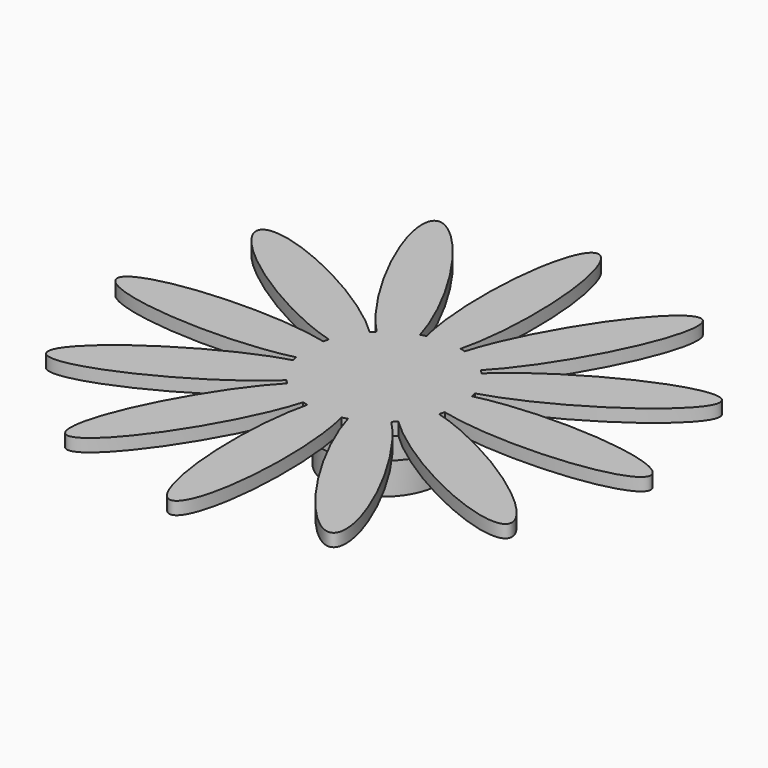
from build123d import *

# Parameters (mm, degrees)
F1_DEPTH = 1
F3_COUNT = 12
F4_R     = 4.4
F4_R_2   = 3.9
F5_DEPTH = 5
F4_R_3   = 5.4
F6_DEPTH = 2


with BuildPart() as f1:
    # F0 (on Top) → F1 (new body)
    with BuildSketch(Plane.XY):
        with BuildLine():
            ThreePointArc((-1.3434482678, 5.8476616482), (-3.7376001922, -4.6936494121), (6, 0))
            ThreePointArc((6, 0), (4.6936494121, 3.7376001922), (1.3434482678, 5.8476616482))
            add(Edge.make_bspline(
                [(0, 3.5970555618), (0.771741269, 3.5970555618), (1.3434482678, 5.8476616482)],
                knots=[0, 0, 0, 0.7365337291, 0.7365337291, 0.7365337291], degree=2, weights=[1, 0.9329526736, 1]))
            add(Edge.make_bspline(
                [(-1.3434482678, 5.8476616482), (-0.771741269, 3.5970555618), (0, 3.5970555618)],
                knots=[5.5466515781, 5.5466515781, 5.5466515781, 6.2831853072, 6.2831853072, 6.2831853072], degree=2, weights=[1, 0.9329526736, 1]))
        make_face()
        with BuildLine():
            ThreePointArc((-1.3434482678, 5.8476616482), (0, 6), (1.3434482678, 5.8476616482))
            add(Edge.make_bspline(
                [(1.3434482678, 5.8476616482), (5.1830842287, 20.9629358724), (0, 20.9629358724), (-5.1830842287, 20.9629358724), (-1.3434482678, 5.8476616482)],
                knots=[0.7365337291, 0.7365337291, 0.7365337291, 3.1415926536, 3.1415926536, 5.5466515781, 5.5466515781, 5.5466515781], degree=2, weights=[1, 0.3599990401, 1, 0.3599990401, 1]))
        make_face()
        with BuildLine():
            add(Edge.make_bspline(
                [(0, 3.5970555618), (0.771741269, 3.5970555618), (1.3434482678, 5.8476616482)],
                knots=[0, 0, 0, 0.7365337291, 0.7365337291, 0.7365337291], degree=2, weights=[1, 0.9329526736, 1]))
            ThreePointArc((1.3434482678, 5.8476616482), (0, 6), (-1.3434482678, 5.8476616482))
            add(Edge.make_bspline(
                [(-1.3434482678, 5.8476616482), (-0.771741269, 3.5970555618), (0, 3.5970555618)],
                knots=[5.5466515781, 5.5466515781, 5.5466515781, 6.2831853072, 6.2831853072, 6.2831853072], degree=2, weights=[1, 0.9329526736, 1]))
        make_face()
    extrude(amount=F1_DEPTH)


with BuildPart() as f3_1:
    # F3: instance of F1
    add(f1.part.rotate(Axis((0, 0, 8.796742186), (0, 0, -1)), 1 * 360 / F3_COUNT))


with BuildPart() as f3_2:
    # F3: instance of F1
    add(f1.part.rotate(Axis((0, 0, 8.796742186), (0, 0, -1)), 2 * 360 / F3_COUNT))


with BuildPart() as f3_3:
    # F3: instance of F1
    add(f1.part.rotate(Axis((0, 0, 8.796742186), (0, 0, -1)), 3 * 360 / F3_COUNT))


with BuildPart() as f3_4:
    # F3: instance of F1
    add(f1.part.rotate(Axis((0, 0, 8.796742186), (0, 0, -1)), 4 * 360 / F3_COUNT))


with BuildPart() as f3_5:
    # F3: instance of F1
    add(f1.part.rotate(Axis((0, 0, 8.796742186), (0, 0, -1)), 5 * 360 / F3_COUNT))


with BuildPart() as f3_6:
    # F3: instance of F1
    add(f1.part.rotate(Axis((0, 0, 8.796742186), (0, 0, -1)), 6 * 360 / F3_COUNT))


with BuildPart() as f3_7:
    # F3: instance of F1
    add(f1.part.rotate(Axis((0, 0, 8.796742186), (0, 0, -1)), 7 * 360 / F3_COUNT))


with BuildPart() as f3_8:
    # F3: instance of F1
    add(f1.part.rotate(Axis((0, 0, 8.796742186), (0, 0, -1)), 8 * 360 / F3_COUNT))


with BuildPart() as f3_9:
    # F3: instance of F1
    add(f1.part.rotate(Axis((0, 0, 8.796742186), (0, 0, -1)), 9 * 360 / F3_COUNT))


with BuildPart() as f3_10:
    # F3: instance of F1
    add(f1.part.rotate(Axis((0, 0, 8.796742186), (0, 0, -1)), 10 * 360 / F3_COUNT))


with BuildPart() as f3_11:
    # F3: instance of F1
    add(f1.part.rotate(Axis((0, 0, 8.796742186), (0, 0, -1)), 11 * 360 / F3_COUNT))


with BuildPart() as f1_1:
    add(f1.part)

    add(f3_1.part)  # F5 merges F3_1

    add(f3_2.part)  # F5 merges F3_2

    add(f3_3.part)  # F5 merges F3_3

    add(f3_4.part)  # F5 merges F3_4

    add(f3_5.part)  # F5 merges F3_5

    add(f3_6.part)  # F5 merges F3_6

    add(f3_7.part)  # F5 merges F3_7

    add(f3_8.part)  # F5 merges F3_8

    add(f3_9.part)  # F5 merges F3_9

    add(f3_10.part)  # F5 merges F3_10

    add(f3_11.part)  # F5 merges F3_11
    # F4 (on Top) → F5 (join)
    with BuildSketch(Plane.XY):
        Circle(F4_R)
        Circle(F4_R_2, mode=Mode.SUBTRACT)
    extrude(amount=-F5_DEPTH)

    # F4 (on Top) → F6 (join)
    with BuildSketch(Plane.XY):
        Circle(F4_R_3)
        Circle(F4_R, mode=Mode.SUBTRACT)
    extrude(amount=-F6_DEPTH)


solid = f1_1.part
